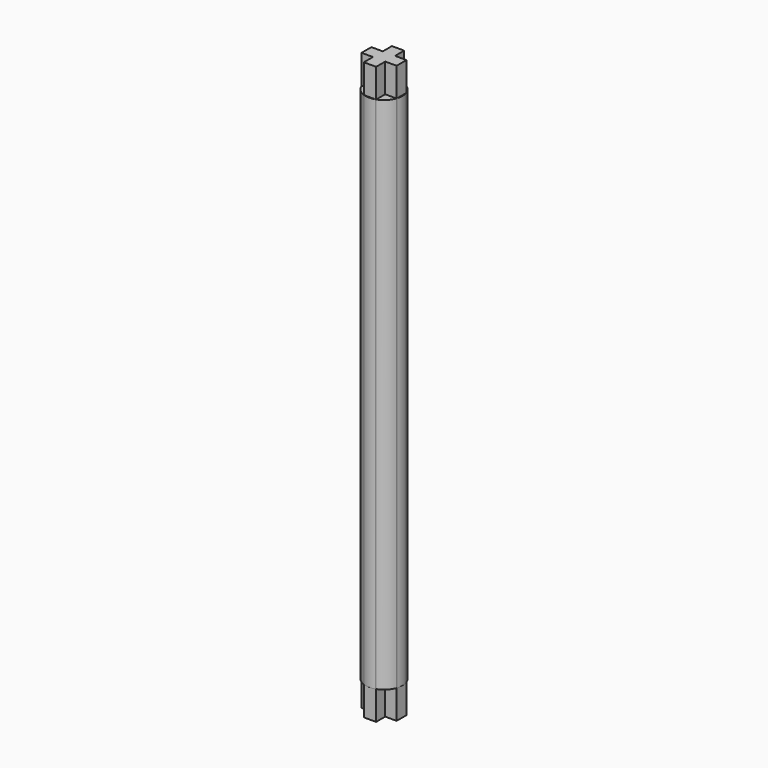
from build123d import *

# Parameters (mm, degrees)
F0_W     = 1.6891
F0_H     = 1.56845
F0_H_2   = 1.6891
F0_W_2   = 1.56845
F1_DEPTH = 39.6875
F2_R     = 2.54
F3_DEPTH = 35.71875


with BuildPart() as f1:
    # F0 (on Top) → F1 (new body, symmetric)
    with BuildSketch(Plane.XY):
        with Locations((0, -1.628775)):
            Rectangle(F0_W, F0_H)
        Rectangle(F0_W, F0_H_2)
        with Locations((1.628775, 0)):
            Rectangle(F0_W_2, F0_H_2)
        with Locations((-1.628775, 0)):
            Rectangle(F0_W_2, F0_H_2)
        with Locations((0, 1.628775)):
            Rectangle(F0_W, F0_H)
    extrude(amount=F1_DEPTH, both=True)

    # F2 (on Top) → F3 (join, symmetric)
    with BuildSketch(Plane.XY):
        Circle(F2_R)
    extrude(amount=F3_DEPTH, both=True)


solid = f1.part
